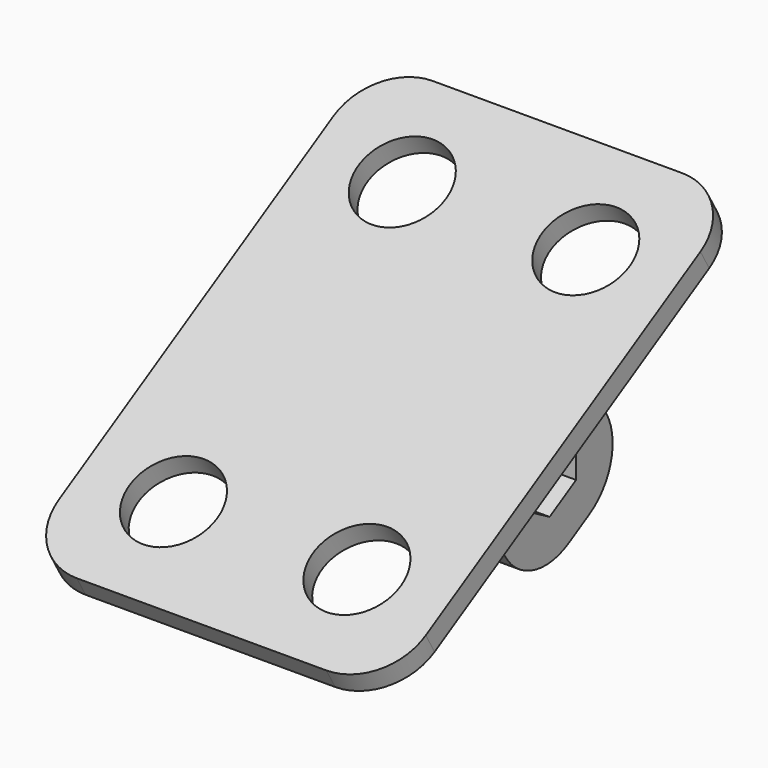
from build123d import *

# Parameters (mm, degrees)
SKETCH069_W             = 50
SKETCH069_H             = 70
SKETCH069_R             = 6
PAD033_DEPTH            = 3
SKETCH068_W             = 20
SKETCH068_H             = 25
PAD034_DEPTH            = 12.5
SKETCH067_W             = 40
SKETCH067_H             = 33
POCKET027_DEPTH         = 5.5
FILLET_R                = 8
CHAMFER001_SIZE         = 1
BODY014_PLACEMENT_ANGLE = 210


with BuildPart() as part:
    # Sketch069 → Pad033 (new body)
    with BuildSketch(Plane.XY):
        with Locations((0, 5)):
            Rectangle(SKETCH069_W, SKETCH069_H)
        with Locations((-12.5, 27.5)):
            Circle(SKETCH069_R, mode=Mode.SUBTRACT)
        with Locations((12.5, 27.5)):
            Circle(SKETCH069_R, mode=Mode.SUBTRACT)
        with Locations((-12.5, -17.5)):
            Circle(SKETCH069_R, mode=Mode.SUBTRACT)
        with Locations((12.5, -17.5)):
            Circle(SKETCH069_R, mode=Mode.SUBTRACT)
    extrude(amount=-PAD033_DEPTH)

    # Sketch068 → Pad034 (join, symmetric)
    with BuildSketch(Plane.YZ):
        with Locations((0, 12.5)):
            Rectangle(SKETCH068_W, SKETCH068_H)
        Polygon((2.6, 10.496668), (5.2, 15), (2.6, 19.503332), (-2.6, 19.503332), (-5.2, 15), (-2.6, 10.496668), align=None, mode=Mode.SUBTRACT)
    extrude(amount=PAD034_DEPTH, both=True)

    # Sketch067 → Pocket027 (cut, symmetric)
    with BuildSketch(Plane.YZ):
        with Locations((0, 18.5)):
            Rectangle(SKETCH067_W, SKETCH067_H)
    extrude(amount=POCKET027_DEPTH, both=True, mode=Mode.SUBTRACT)

    # Fillet
    fillet_edges = [part.edges().sort_by_distance(p)[0] for p in [
        (-25, -30, -1.5),
        (-25, 40, -1.5),
        (25, 40, -1.5),
        (25, -30, -1.5),
        (-9, 10, 25),
        (9, 10, 25),
        (-9, -10, 25),
        (9, -10, 25),
    ]]
    fillet(fillet_edges, radius=FILLET_R)

    # Chamfer001
    chamfer001_edges = [part.edges().sort_by_distance(p)[0] for p in [
        (12.5, 0, 0),
        (-12.5, 0, 0),
    ]]
    chamfer(chamfer001_edges, length=CHAMFER001_SIZE)


with BuildPart() as part_1:
    # Body014 placement: moved
    add(part.part.moved(Location((-66, 77.285671, 90.10746))).rotate(Axis((-66, 77.285671, 90.10746), (1, 0, 0)), BODY014_PLACEMENT_ANGLE))


solid = part_1.part
